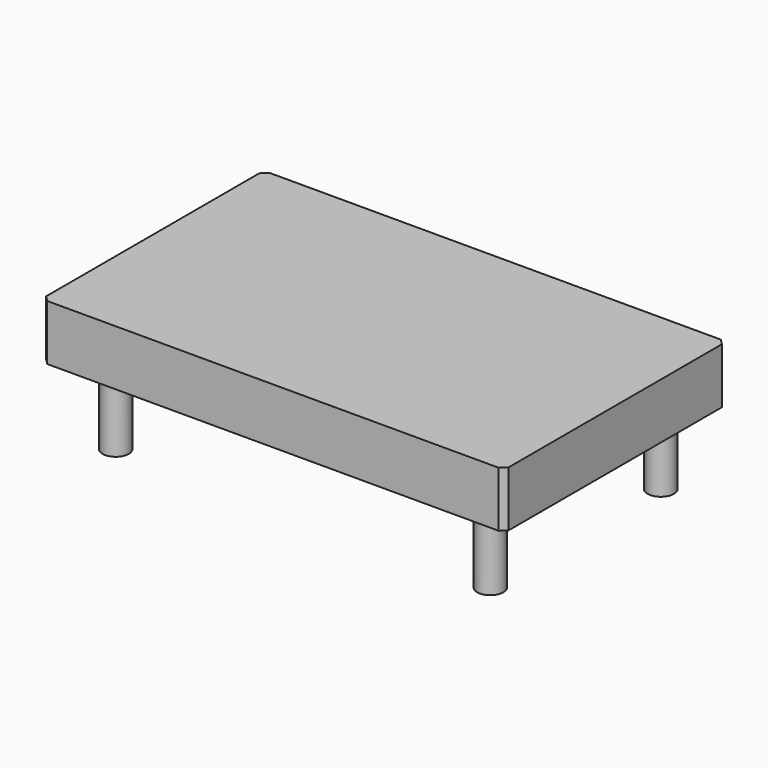
from build123d import *

# Parameters (mm, degrees)
F0_W     = 250
F0_H     = 150
F1_DEPTH = 30
F2_R     = 7.0739
F3_DEPTH = 40
F4_SIZE  = 3


with BuildPart() as f1:
    # F0 (on Top) → F1 (new body)
    with BuildSketch(Plane.XY):
        with Locations((17.895456, -6.518978)):
            Rectangle(F0_W, F0_H)
    extrude(amount=-F1_DEPTH)

    # F2 (on face) → F3 (join)
    with BuildSketch(Plane(origin=(0, 0, -30), x_dir=(1, 0, 0), z_dir=(0, 0, -1))):
        with Locations((-80.976687, 64.177193)):
            Circle(F2_R)
        with Locations((121.452317, 64.177193)):
            Circle(F2_R)
        with Locations((121.452317, -50.98886)):
            Circle(F2_R)
        with Locations((-80.976687, -50.98886)):
            Circle(F2_R)
    extrude(amount=F3_DEPTH)

    # F4
    f4_edges = [f1.edges().sort_by_distance(p)[0] for p in [
        (-107.104544, 68.481022, -15),
        (142.895456, 68.481022, -15),
        (142.895456, -81.518978, -15),
        (-107.104544, -81.518978, -15),
    ]]
    chamfer(f4_edges, length=F4_SIZE)


solid = f1.part
